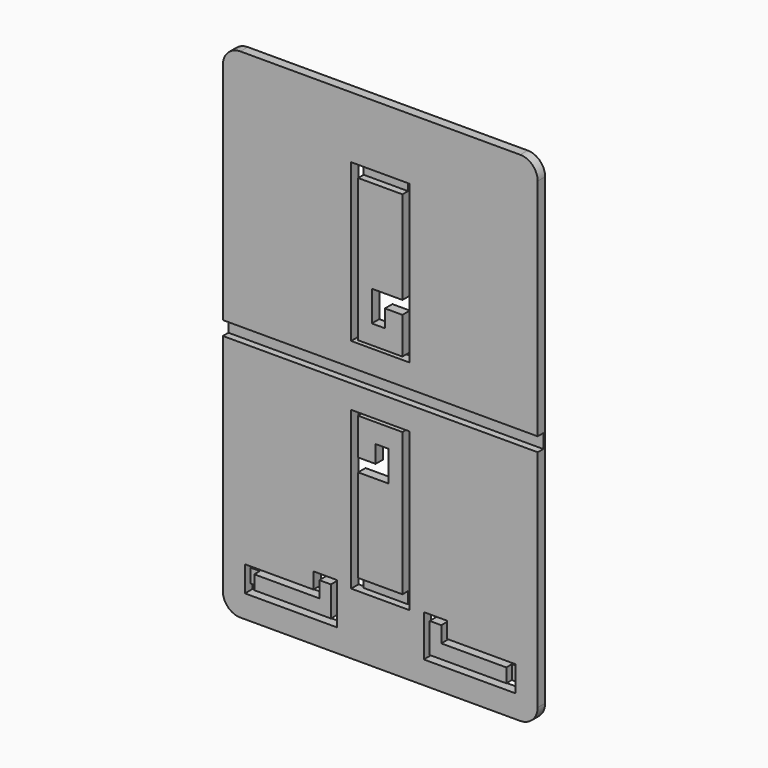
from build123d import *

# Parameters (mm, degrees)
F0_W     = 54
F0_H     = 2.4
F0_W_2   = 7.6
F0_H_2   = 2
F0_W_3   = 1.6
F1_DEPTH = 0.4
F2_DEPTH = 1.6


with BuildPart() as f1:
    # F0 (on Front) → F1 (new body)
    with BuildSketch(Plane.XZ):
        with Locations((-27, 42.75)):
            Rectangle(F0_W, F0_H)
        with Locations((-27, 73.95)):
            Rectangle(F0_W_2, F0_H_2)
        with Locations((-27, 11.55)):
            Rectangle(F0_W_2, F0_H_2)
        with Locations((-4.585127, 6.106142)):
            Rectangle(F0_W_3, F0_H)
        with Locations((-49.414873, 6.106142)):
            Rectangle(F0_W_3, F0_H)
    extrude(amount=F1_DEPTH)


with BuildPart() as f2:
    # F0 (on Front) → F2 (new body)
    with BuildSketch(Plane.XZ):
        with BuildLine():
            Line((-54, 43.95), (0, 43.95))
            Line((0, 43.95), (0, 82.5))
            ThreePointArc((0, 82.5), (-0.87868, 84.62132), (-3, 85.5))
            Line((-3, 85.5), (-51, 85.5))
            ThreePointArc((-51, 85.5), (-53.12132, 84.62132), (-54, 82.5))
            Line((-54, 82.5), (-54, 43.95))
        make_face()
        Polygon((-32, 47.95), (-32, 74.95), (-30.8, 74.95), (-23.2, 74.95), (-22, 74.95), (-22, 47.95), align=None, mode=Mode.SUBTRACT)
        Polygon((-23.2, 72.95), (-30.8, 72.95), (-30.8, 48.45), (-23.2, 48.45), (-23.2, 54.75), (-26.2, 54.75), (-26.2, 51.75), (-28.45, 51.75), (-28.45, 57), (-23.2, 57), align=None)
        with BuildLine():
            Line((-51, 0), (-3, 0))
            ThreePointArc((-3, 0), (-0.87868, 0.87868), (0, 3))
            Line((0, 3), (0, 41.55))
            Line((0, 41.55), (-54, 41.55))
            Line((-54, 41.55), (-54, 3))
            ThreePointArc((-54, 3), (-53.12132, 0.87868), (-51, 0))
        make_face()
        Polygon((-50.214873, 7.306142), (-50.214873, 8.306142), (-48.614873, 8.306142), (-38.464873, 8.306142), (-38.464873, 11.056142), (-34.464873, 11.056142), (-34.464873, 3.906142), (-50.214873, 3.906142), (-50.214873, 4.906142), align=None, mode=Mode.SUBTRACT)
        Polygon((-15.535127, 11.056142), (-15.535127, 8.306142), (-5.385127, 8.306142), (-3.785127, 8.306142), (-3.785127, 7.306142), (-3.785127, 4.906142), (-3.785127, 3.906142), (-19.535127, 3.906142), (-19.535127, 11.056142), align=None, mode=Mode.SUBTRACT)
        Polygon((-32, 10.55), (-32, 37.55), (-22, 37.55), (-22, 10.55), (-23.2, 10.55), (-30.8, 10.55), align=None, mode=Mode.SUBTRACT)
        Polygon((-30.8, 28.5), (-30.8, 12.55), (-23.2, 12.55), (-23.2, 37.05), (-30.8, 37.05), (-30.8, 30.75), (-27.8, 30.75), (-27.8, 33.75), (-25.55, 33.75), (-25.55, 28.5), align=None)
        Polygon((-37.464873, 7.306142), (-48.614873, 7.306142), (-48.614873, 4.906142), (-35.464873, 4.906142), (-35.464873, 10.056142), (-37.464873, 10.056142), align=None)
        Polygon((-5.385127, 4.906142), (-5.385127, 7.306142), (-16.535127, 7.306142), (-16.535127, 10.056142), (-18.535127, 10.056142), (-18.535127, 4.906142), align=None)
    extrude(amount=F2_DEPTH)


solid = Compound([f1.part, f2.part])
